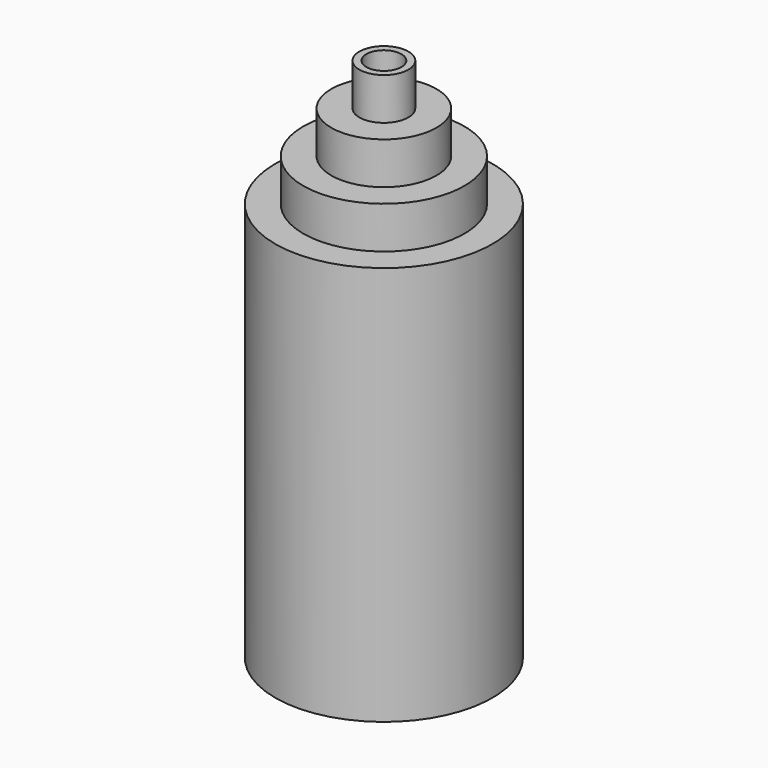
from build123d import *

# Parameters (mm, degrees)
F2_R     = 25
F3_DEPTH = 100
F4_R     = 5
F5_DEPTH = 150.001


with BuildPart() as f1:
    # F0 (on Front) → F1 (revolve)
    with BuildSketch(Plane.XZ):
        Polygon((-31, 0), (0, 0), (0, 150), (-7, 150), (-7, 138), (-15, 138), (-15, 126), (-23, 126), (-23, 114), (-31, 114), align=None)
    revolve(axis=Axis((0, 0, 75), (0, 0, 1)))

    # F2 (on Top) → F3 (cut)
    with BuildSketch(Plane.XY):
        Circle(F2_R)
    extrude(amount=F3_DEPTH, mode=Mode.SUBTRACT)

    # F4 (on Top) → F5 (cut, through all)
    with BuildSketch(Plane.XY):
        Circle(F4_R)
    extrude(amount=F5_DEPTH, mode=Mode.SUBTRACT)


solid = f1.part
